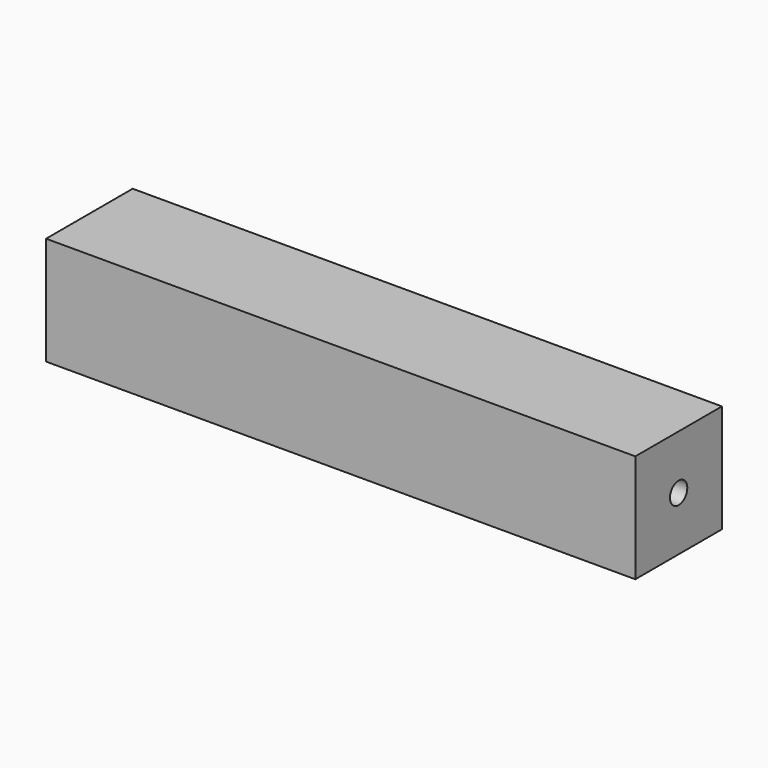
from build123d import *

# Parameters (mm, degrees)
F0_W     = 45
F0_H     = 45
F0_R     = 4.5
F1_DEPTH = 245


with BuildPart() as f1:
    # F0 (on Right) → F1 (new body)
    with BuildSketch(Plane.YZ):
        Rectangle(F0_W, F0_H)
        Circle(F0_R, mode=Mode.SUBTRACT)
    extrude(amount=-F1_DEPTH)


solid = f1.part
